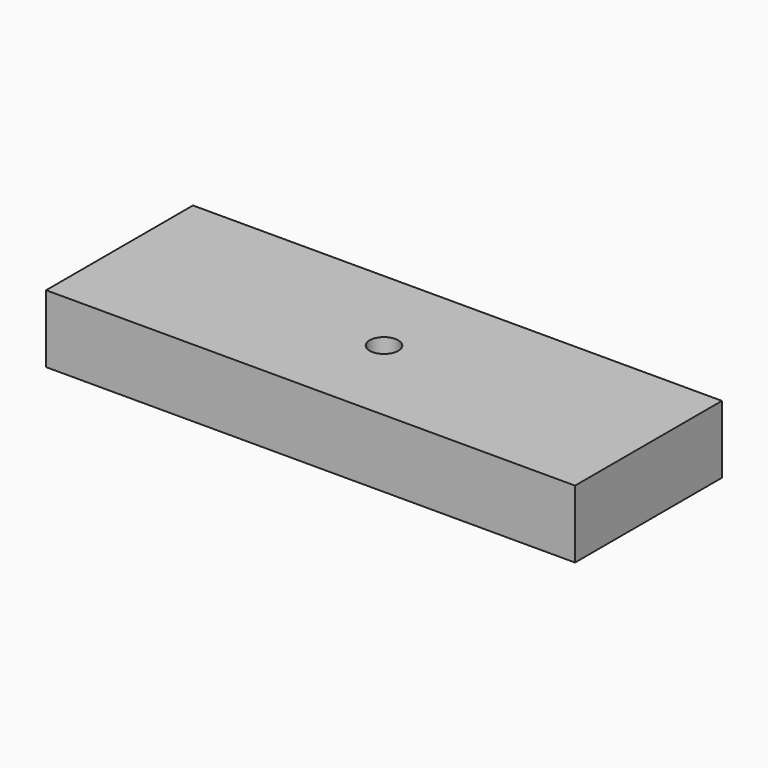
from build123d import *

# Parameters (mm, degrees)
F0_W     = 198.3511894941
F0_H     = 68.8409879804
F1_DEPTH = 25.4
F3_D     = 10.71626
F3_DEPTH = 50.3174
F3_TIP   = 3.2194893086


with BuildPart() as f1:
    # F0 (on Top) → F1 (new body)
    with BuildSketch(Plane.XY):
        Rectangle(F0_W, F0_H)
    extrude(amount=F1_DEPTH)

    # F3
    with Locations(Plane.XY.offset(25.4)):
        with Locations((0, 0)):
            Hole(F3_D / 2, depth=F3_DEPTH)
            with Locations((0, 0, -(F3_DEPTH + F3_TIP / 2))):  # 118° drill point
                Cone(0, F3_D / 2, F3_TIP, mode=Mode.SUBTRACT)


solid = f1.part
